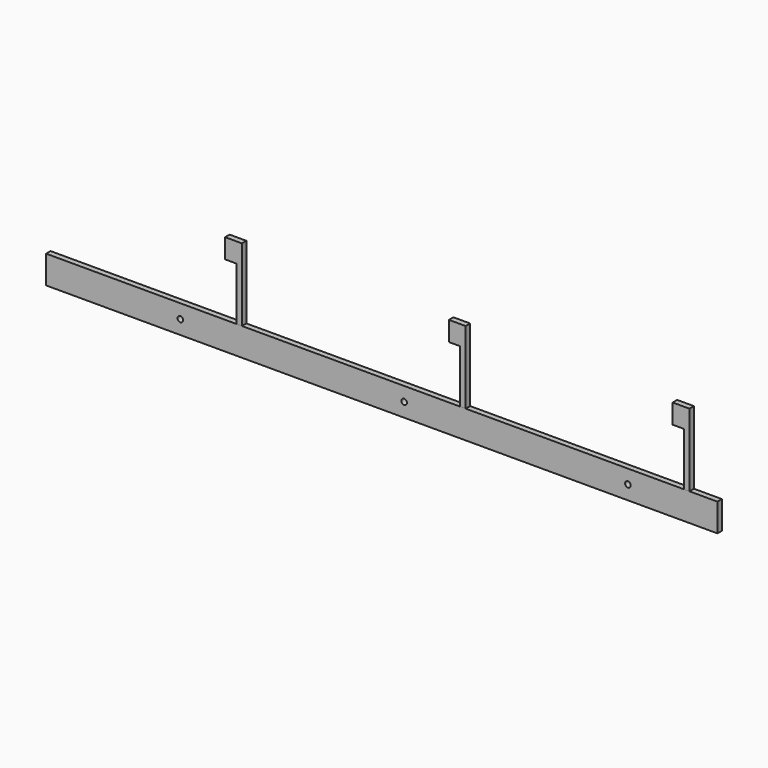
from build123d import *

# Parameters (mm, degrees)
F0_W     = 1200
F0_H     = 50
F2_DEPTH = 10
F3_R     = 5
F4_DEPTH = 10


with BuildPart() as f2:
    # F0 (on Front) → F2 (new body)
    with BuildSketch(Plane.XZ):
        with Locations((0, 25)):
            Rectangle(F0_W, F0_H)
    extrude(amount=F2_DEPTH)

    # F3 (on Front) → F4 (cut, through all)
    with BuildSketch(Plane.XZ):
        with Locations((440, 25)):
            Circle(F3_R)
        with Locations((40, 25)):
            Circle(F3_R)
        with Locations((-360, 25)):
            Circle(F3_R)
    extrude(amount=F4_DEPTH, mode=Mode.SUBTRACT)


with BuildPart() as f2b:
    # F1 (on Front) → F2, piece 2 (new body)
    with BuildSketch(Plane.XZ):
        Polygon((540, 50), (550, 50), (550, 180), (520, 180), (520, 145), (540, 145), align=None)
    extrude(amount=F2_DEPTH)


with BuildPart() as f2c:
    # F1 (on Front) → F2, piece 3 (new body)
    with BuildSketch(Plane.XZ):
        Polygon((150, 50), (150, 180), (120, 180), (120, 145), (140, 145), (140, 50), align=None)
    extrude(amount=F2_DEPTH)


with BuildPart() as f2d:
    # F1 (on Front) → F2, piece 4 (new body)
    with BuildSketch(Plane.XZ):
        Polygon((-250, 50), (-250, 180), (-280, 180), (-280, 145), (-260, 145), (-260, 50), align=None)
    extrude(amount=F2_DEPTH)


solid = Compound([f2.part, f2b.part, f2c.part, f2d.part])
